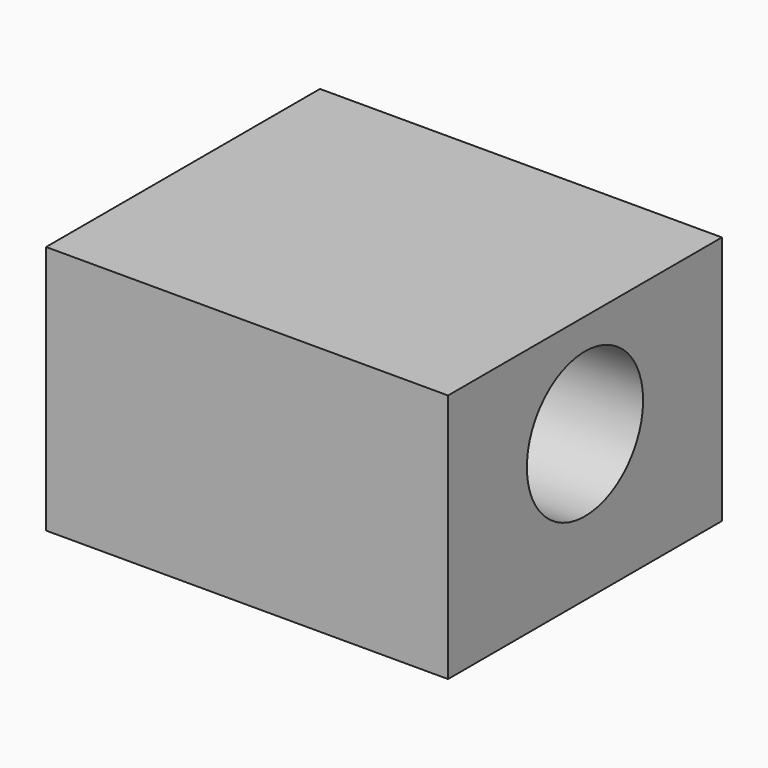
from build123d import *

# Parameters (mm, degrees)
F0_W     = 86.526465
F0_H     = 63.109182
F1_DEPTH = 101.6
F2_R     = 18.361757
F3_DEPTH = 101.601


with BuildPart() as f1:
    # F0 (on Right) → F1 (new body)
    with BuildSketch(Plane.YZ):
        with Locations((-6.383101, 31.554591)):
            Rectangle(F0_W, F0_H)
    extrude(amount=F1_DEPTH)

    # F2 (on face) → F3 (cut, through all)
    with BuildSketch(Plane.YZ.offset(101.6)):
        with Locations((-6.383101, 36.998857)):
            Circle(F2_R)
    extrude(amount=-F3_DEPTH, mode=Mode.SUBTRACT)


solid = f1.part
